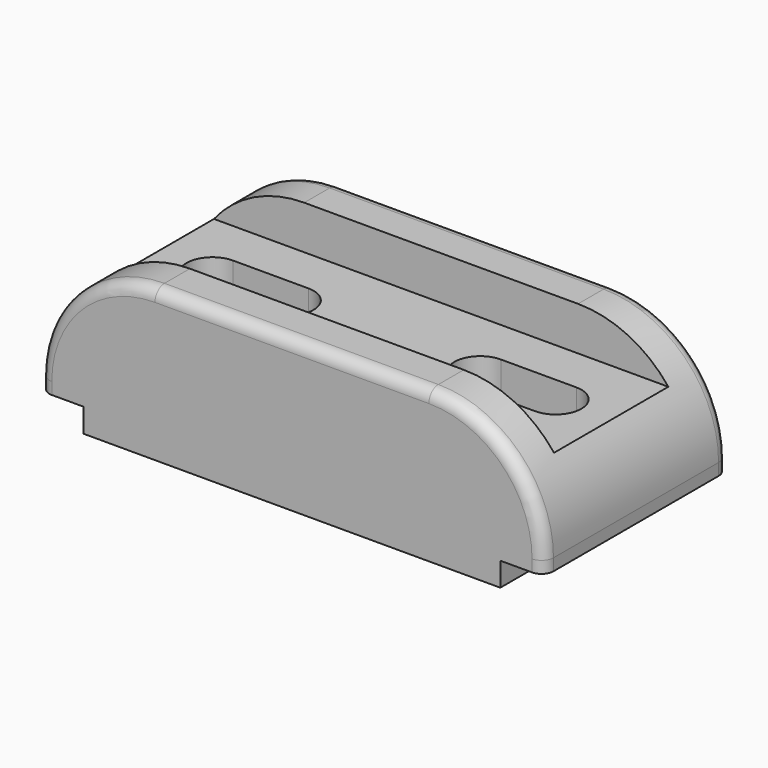
from build123d import *

# Parameters (mm, degrees)
F1_DEPTH = 29
F2_W     = 155.196704
F2_H     = 36
F3_DEPTH = 11
F5_DEPTH = 27.001
F6_R     = 3


with BuildPart() as f1:
    # F0 (on Front) → F1 (new body, symmetric)
    with BuildSketch(Plane.XZ):
        with BuildLine():
            Line((34.5, 19), (-34.5, 19))
            ThreePointArc((-34.5, 19), (-55.006097, 10.506097), (-63.5, -10))
            Line((-63.5, -10), (-63.5, -13))
            Line((-63.5, -13), (-52.5, -13))
            Line((-52.5, -13), (-52.5, -19))
            Line((-52.5, -19), (52.5, -19))
            Line((52.5, -19), (52.5, -13))
            Line((52.5, -13), (63.5, -13))
            Line((63.5, -13), (63.5, -10))
            ThreePointArc((63.5, -10), (55.006097, 10.506097), (34.5, 19))
        make_face()
    extrude(amount=F1_DEPTH, both=True)

    # F2 (on face) → F3 (cut)
    with BuildSketch(Plane.XY.offset(19)):
        with Locations((-5.67447, 0)):
            Rectangle(F2_W, F2_H)
    extrude(amount=-F3_DEPTH, mode=Mode.SUBTRACT)

    # F4 (on face) → F5 (cut, through all)
    with BuildSketch(Plane.XY.offset(8)):
        with BuildLine():
            Line((-24.237634, 6.5), (-43.237634, 6.5))
            ThreePointArc((-43.237634, 6.5), (-49.737634, 0), (-43.237634, -6.5))
            Line((-43.237634, -6.5), (-24.237634, -6.5))
            ThreePointArc((-24.237634, -6.5), (-17.737634, 0), (-24.237634, 6.5))
        make_face()
        with BuildLine():
            Line((43.237634, 6.5), (24.237634, 6.5))
            ThreePointArc((24.237634, 6.5), (17.737634, 0), (24.237634, -6.5))
            Line((24.237634, -6.5), (43.237634, -6.5))
            ThreePointArc((43.237634, -6.5), (49.737634, 0), (43.237634, 6.5))
        make_face()
    extrude(amount=-F5_DEPTH, mode=Mode.SUBTRACT)

    # F6
    f6_edges = [f1.edges().sort_by_distance(p)[0] for p in [
        (-55.006097, -29, 10.506097),
        (55.006097, 29, 10.506097),
    ]]
    fillet(f6_edges, radius=F6_R)


solid = f1.part
